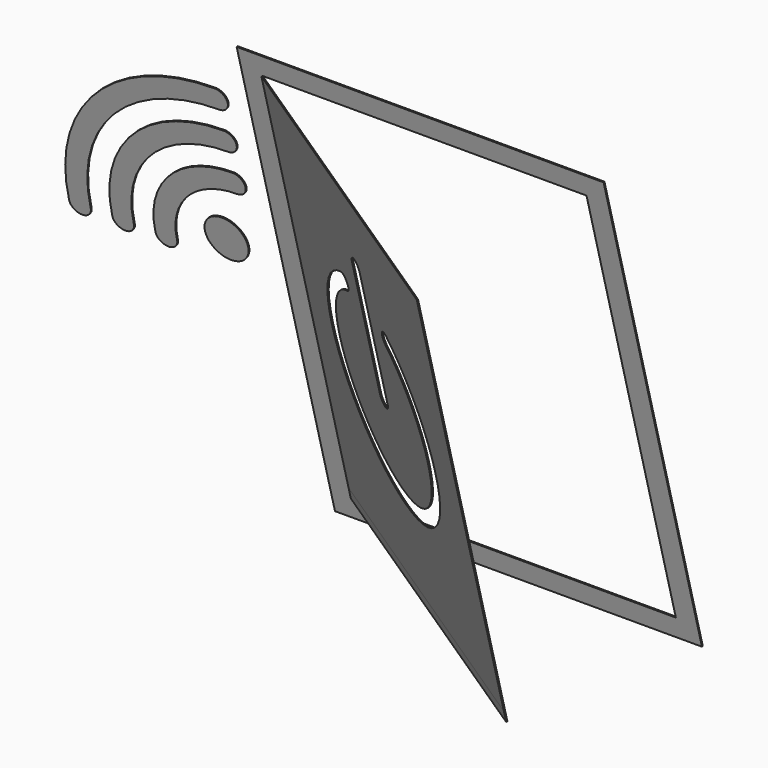
from build123d import *

# Parameters (mm, degrees)
SKETCH003_R                               = 2
EXTRUDE003_DEPTH                          = 0.1
EXTRUDE003_PLACEMENT_ANGLE                = 105
SKETCH004_AS_DRAWN_W                      = 30
SKETCH004_AS_DRAWN_H                      = 1
EXTRUDE004_DEPTH                          = 0.1
EXTRUDE004_ONTO_SKETCH004_PLACEMENT_ANGLE = 330
EXTRUDE004_PLACEMENT_ANGLE                = 105
SKETCH002_W                               = 34
SKETCH002_H                               = 44
SKETCH002_W_2                             = 30
SKETCH002_H_2                             = 40
EXTRUDE002_DEPTH                          = 0.1
EXTRUDE001_DEPTH                          = 4
SKETCH_W                                  = 30
SKETCH_H                                  = 39
EXTRUDE_DEPTH                             = 0.1
CUT_PLACEMENT_ANGLE                       = 330
FUSION_PLACEMENT_ANGLE                    = 105


with BuildPart() as obj1:
    # Sketch003 → Extrude003 (new body)
    with BuildSketch(Plane.XY):
        with Locations((-7, 22)):
            Circle(SKETCH003_R)
        with BuildLine():
            ThreePointArc((-4.954576, 27.001952), (-9.919833, 24.982433), (-12.001967, 20.043106))
            ThreePointArc((-13.999895, 20.043527), (-13.001151, 19.000097), (-12.001967, 20.043106))
            ThreePointArc((-4.954524, 28.999885), (-11.332416, 26.39535), (-13.999895, 20.043527))
            ThreePointArc((-4.954576, 27.001952), (-4, 28.000894), (-4.954524, 28.999885))
        make_face()
        with BuildLine():
            ThreePointArc((-4.957299, 31.001779), (-12.764574, 27.79438), (-16.001862, 19.999451))
            ThreePointArc((-18, 19.999868), (-17.001139, 19.000931), (-16.001862, 19.999451))
            ThreePointArc((-4.956672, 32.999928), (-14.177103, 29.207648), (-18, 19.999868))
            ThreePointArc((-4.957299, 31.001779), (-4, 32.000553), (-4.956672, 32.999928))
        make_face()
        with BuildLine():
            ThreePointArc((-4.957809, 35.001714), (-15.593059, 30.622632), (-20.001774, 19.99963))
            ThreePointArc((-22, 19.999951), (-21.001047, 19.000887), (-20.001774, 19.99963))
            ThreePointArc((-4.958167, 36.999949), (-17.006034, 32.035579), (-22, 19.999951))
            ThreePointArc((-4.957809, 35.001714), (-4, 36.001003), (-4.958167, 36.999949))
        make_face()
    extrude(amount=EXTRUDE003_DEPTH)


with BuildPart() as obj1_1:
    # Extrude003 placement: moved
    add(obj1.part.rotate(Axis((0, 0, 0), (1, 0, 0)), EXTRUDE003_PLACEMENT_ANGLE))


with BuildPart() as extrudedoorlower:
    # Sketch004 as drawn → Extrude004 (new)
    with BuildSketch(Plane.XY):
        with Locations((15, 0.5)):
            Rectangle(SKETCH004_AS_DRAWN_W, SKETCH004_AS_DRAWN_H)
    extrude(amount=EXTRUDE004_DEPTH)


with BuildPart() as extrudedoorlower_1:
    # Extrude004 onto Sketch004 placement: moved
    add(extrudedoorlower.part.rotate(Axis((0, 0, 0), (0, 1, 0)), EXTRUDE004_ONTO_SKETCH004_PLACEMENT_ANGLE))


with BuildPart() as extrudedoorlower_2:
    # Extrude004 placement: moved
    add(extrudedoorlower_1.part.rotate(Axis((0, 0, 0), (1, 0, 0)), EXTRUDE004_PLACEMENT_ANGLE))


with BuildPart() as extrudeframe:
    # Sketch002 → Extrude002 (new body)
    with BuildSketch(Plane.XY):
        with Locations((15, 20)):
            Rectangle(SKETCH002_W, SKETCH002_H)
        with Locations((15, 20)):
            Rectangle(SKETCH002_W_2, SKETCH002_H_2, mode=Mode.SUBTRACT)
    extrude(amount=-EXTRUDE002_DEPTH)


with BuildPart() as extrudepower:
    # Sketch001 → Extrude001 (new body)
    with BuildSketch(Plane.XY.offset(-1)):
        with BuildLine():
            ThreePointArc((10.641101, 29), (15, 10), (19.358899, 29))
            ThreePointArc((19.358899, 29), (18.356982, 28.651917), (18.705064, 27.65))
            ThreePointArc((11.294936, 27.65), (15, 11.5), (18.705064, 27.65))
            ThreePointArc((11.294936, 27.65), (11.643019, 28.651917), (10.641101, 29))
        make_face()
        with BuildLine():
            ThreePointArc((15.75, 32.5), (15, 33.25), (14.25, 32.5))
            Line((14.25, 32.5), (14.25, 20))
            ThreePointArc((14.25, 20), (15, 19.25), (15.75, 20))
            Line((15.75, 32.5), (15.75, 20))
        make_face()
    extrude(amount=EXTRUDE001_DEPTH)


with BuildPart() as fusiondoor:
    # Sketch → Extrude (new body)
    with BuildSketch(Plane.XY):
        with Locations((15, 20.5)):
            Rectangle(SKETCH_W, SKETCH_H)
    extrude(amount=EXTRUDE_DEPTH)

    # Cut: cut ExtrudePower
    add(extrudepower.part, mode=Mode.SUBTRACT)


with BuildPart() as fusiondoor_1:
    # Cut placement: moved
    add(fusiondoor.part.rotate(Axis((0, 0, 0), (0, 1, 0)), CUT_PLACEMENT_ANGLE))

    # Fusion: union ExtrudeFrame
    add(extrudeframe.part)


with BuildPart() as fusiondoor_2:
    # Fusion placement: moved
    add(fusiondoor_1.part.rotate(Axis((0, 0, 0), (1, 0, 0)), FUSION_PLACEMENT_ANGLE))


solid = Compound([obj1_1.part, extrudedoorlower_2.part, fusiondoor_2.part])
